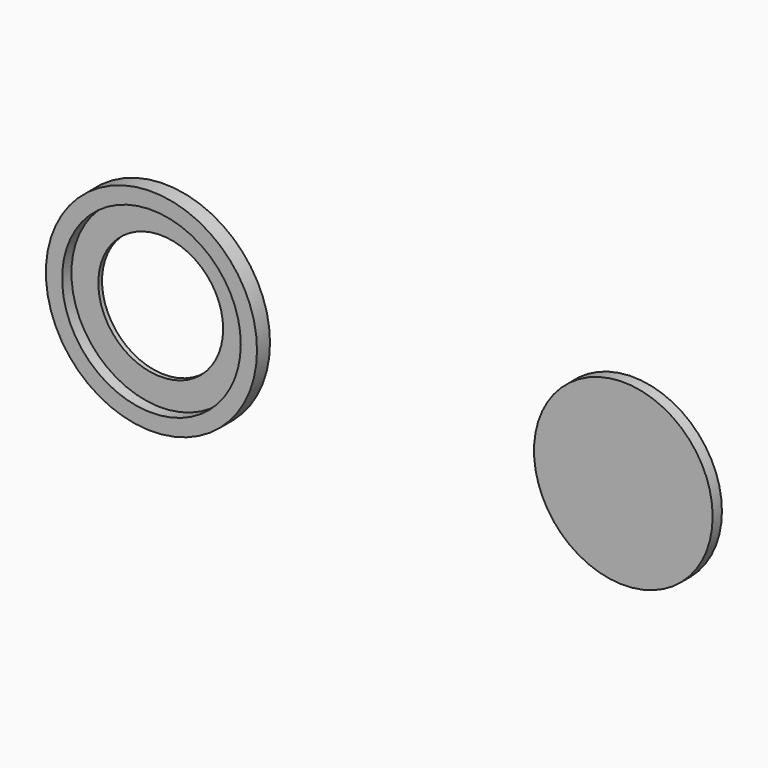
from build123d import *

# Parameters (mm, degrees)
F0_R     = 13.65
F0_R_2   = 11.55
F0_R_3   = 8.069472
F1_DEPTH = 0.6
F2_DEPTH = 2.1
F3_R     = 11.55
F4_DEPTH = 1.5


with BuildPart() as f1:
    # F0 (on Front) → F1 (new body)
    with BuildSketch(Plane.XZ):
        with Locations((-41.744985, 19.37566)):
            Circle(F0_R)
        with Locations((-41.744985, 19.37566)):
            Circle(F0_R_2, mode=Mode.SUBTRACT)
        with Locations((-41.744985, 19.37566)):
            Circle(F0_R_2)
        with Locations((-41.744985, 19.37566)):
            Circle(F0_R_3, mode=Mode.SUBTRACT)
    extrude(amount=F1_DEPTH)

    # F0 (on Front) → F2 (join)
    with BuildSketch(Plane.XZ):
        with Locations((-41.744985, 19.37566)):
            Circle(F0_R)
        with Locations((-41.744985, 19.37566)):
            Circle(F0_R_2, mode=Mode.SUBTRACT)
    extrude(amount=F2_DEPTH)


with BuildPart() as f4:
    # F3 (on Front) → F4 (new body)
    with BuildSketch(Plane.XZ):
        with Locations((18.793561, 19.209346)):
            Circle(F3_R)
    extrude(amount=F4_DEPTH)


solid = Compound([f1.part, f4.part])
